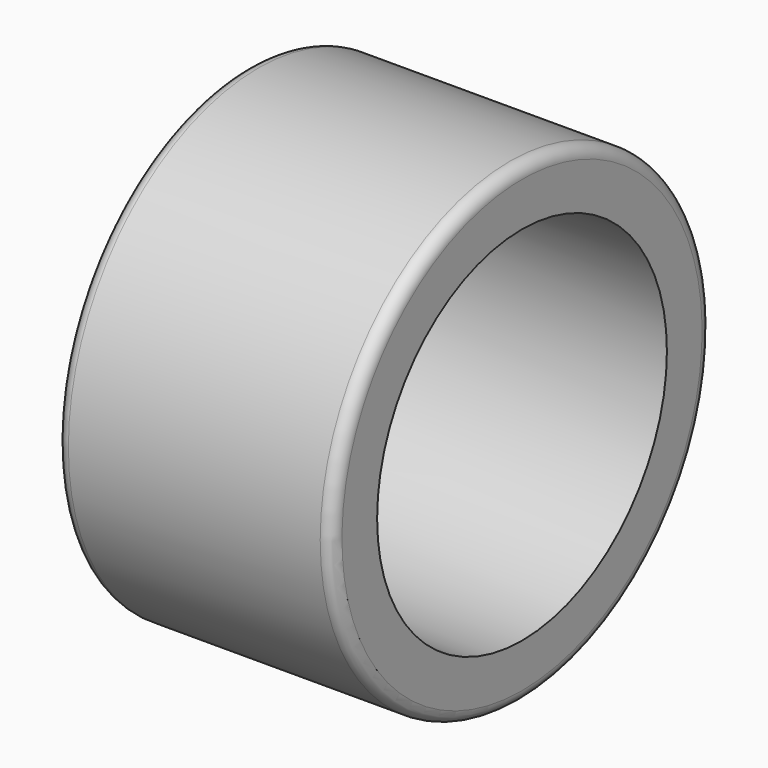
from build123d import *

# Parameters (mm, degrees)
CYLINDER041_R            = 10.5
CYLINDER041_DEPTH        = 20
CYLINDER040_R            = 13.75
CYLINDER040_DEPTH        = 16
FILLET013_R              = 0.7
CLONE043_PITCH_ANGLE     = 90
CLONE051_PLACEMENT_ANGLE = 180


with BuildPart() as cylinder041:
    # Cylinder041 → Cylinder041 (new body)
    with BuildSketch(Plane.XY.offset(-1)):
        Circle(CYLINDER041_R)
    extrude(amount=CYLINDER041_DEPTH)


with BuildPart() as left_tire:
    # Cylinder040 → Cylinder040 (new body)
    with BuildSketch(Plane.XY):
        Circle(CYLINDER040_R)
    extrude(amount=CYLINDER040_DEPTH)

    # Cut027: cut Cylinder041
    add(cylinder041.part, mode=Mode.SUBTRACT)

    # Fillet013
    fillet013_edges = [left_tire.edges().sort_by_distance(p)[0] for p in [
        (-13.75, 0, 16),
        (-13.75, 0, 0),
    ]]
    fillet(fillet013_edges, radius=FILLET013_R)


with BuildPart() as left_tire_1:
    # Clone043 pitch: moved
    add(left_tire.part.rotate(Axis((0, 0, 0), (0, 1, 0)), CLONE043_PITCH_ANGLE))


with BuildPart() as left_tire_2:
    # Clone043 placement: moved
    add(left_tire_1.part.moved(Location((43, 0, 5))))


with BuildPart() as left_tire_3:
    # Clone051 placement: moved
    add(left_tire_2.part.moved(Location((0, 0, 0))).rotate(Axis((0, 0, 0), (0, 0, 1)), CLONE051_PLACEMENT_ANGLE))


solid = left_tire_3.part
